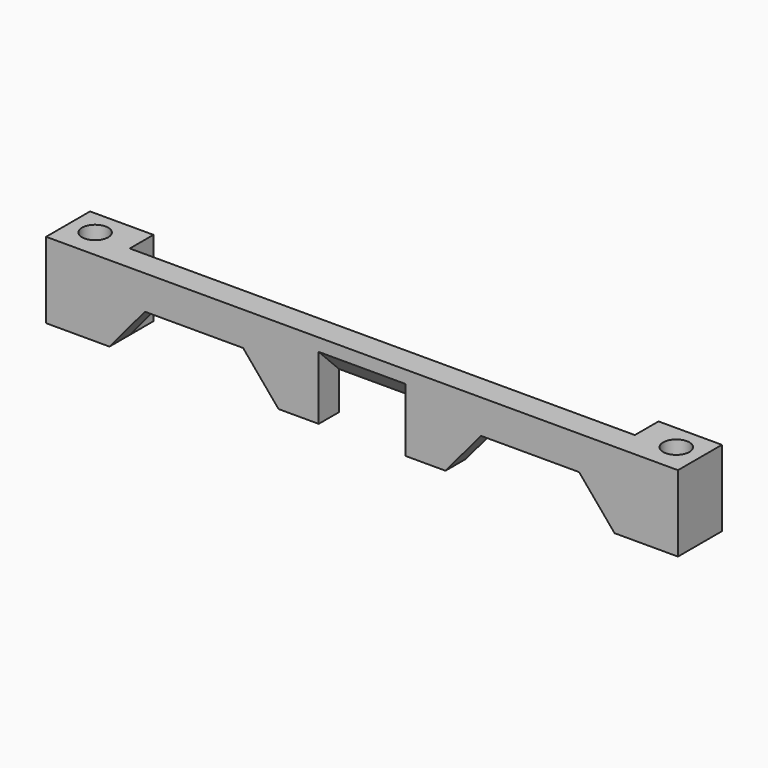
from build123d import *

# Parameters (mm, degrees)
F0_W     = 149.5
F0_H     = 13
F0_R     = 3.1
F1_DEPTH = 18
F3_DEPTH = 10.25
F4_W     = 119.5
F4_H     = 7
F5_DEPTH = 18.001
F7_DEPTH = 25


with BuildPart() as f1:
    # F0 (on Top) → F1 (new body)
    with BuildSketch(Plane.XY):
        Rectangle(F0_W, F0_H)
        with Locations((-68.75, 0.5)):
            Circle(F0_R, mode=Mode.SUBTRACT)
        with Locations((68.75, 0.5)):
            Circle(F0_R, mode=Mode.SUBTRACT)
    extrude(amount=F1_DEPTH)

    # F2 (on Right) → F3 (cut, symmetric)
    with BuildSketch(Plane.YZ):
        Polygon((-6.5, 0), (8.5, 0), (-6.5, 15), align=None)
    extrude(amount=F3_DEPTH, both=True, mode=Mode.SUBTRACT)

    # F4 (on face) → F5 (cut, through all)
    with BuildSketch(Plane.XY.offset(18)):
        with Locations((0, 3)):
            Rectangle(F4_W, F4_H)
    extrude(amount=-F5_DEPTH, mode=Mode.SUBTRACT)

    # F6 (on face) → F7 (cut)
    with BuildSketch(Plane.XZ.offset(6.5)):
        Polygon((-51.359004, 10), (-59.75, 0), (-19.75, 0), (-28.140996, 10), align=None)
        Polygon((28.140996, 10), (19.75, 0), (59.75, 0), (51.359004, 10), align=None)
    extrude(amount=-F7_DEPTH, mode=Mode.SUBTRACT)


solid = f1.part
